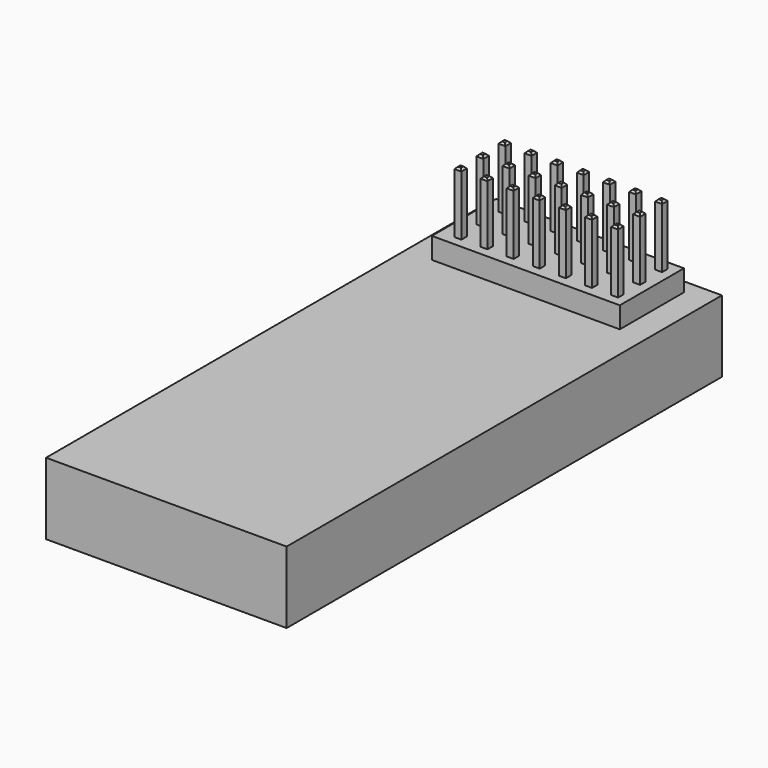
from build123d import *

# Parameters (mm, degrees)
F0_W     = 22.225
F0_H     = 50.2666
F1_DEPTH = 6.6294
F2_W     = 17.3609
F2_H     = 7.4041
F3_DEPTH = 1.9558
F4_W     = 0.635
F4_H     = 0.635
F5_DEPTH = 5.715
F6_SIZE  = 0.1778


with BuildPart() as f1:
    # F0 (on Top) → F1 (new body)
    with BuildSketch(Plane.XY):
        Rectangle(F0_W, F0_H)
    extrude(amount=F1_DEPTH)

    # F2 (on face) → F3 (join)
    with BuildSketch(Plane.XY.offset(6.6294)):
        with Locations((0, 20.08505)):
            Rectangle(F2_W, F2_H)
    extrude(amount=F3_DEPTH)

    # F4 (on face) → F5 (join)
    with BuildSketch(Plane.XY.offset(8.5852)):
        with Locations((7.51205, 22.6441)):
            Rectangle(F4_W, F4_H)
        with Locations((5.09905, 22.6441)):
            Rectangle(F4_W, F4_H)
        with Locations((2.68605, 22.6441)):
            Rectangle(F4_W, F4_H)
        with Locations((0.27305, 22.6441)):
            Rectangle(F4_W, F4_H)
        with Locations((-2.13995, 22.6441)):
            Rectangle(F4_W, F4_H)
        with Locations((-4.55295, 22.6441)):
            Rectangle(F4_W, F4_H)
        with Locations((-6.96595, 22.6441)):
            Rectangle(F4_W, F4_H)
        with Locations((-6.96595, 20.1041)):
            Rectangle(F4_W, F4_H)
        with Locations((-4.55295, 20.1041)):
            Rectangle(F4_W, F4_H)
        with Locations((-2.13995, 20.1041)):
            Rectangle(F4_W, F4_H)
        with Locations((0.27305, 20.1041)):
            Rectangle(F4_W, F4_H)
        with Locations((2.68605, 20.1041)):
            Rectangle(F4_W, F4_H)
        with Locations((5.09905, 20.1041)):
            Rectangle(F4_W, F4_H)
        with Locations((7.51205, 20.1041)):
            Rectangle(F4_W, F4_H)
        with Locations((-6.96595, 17.5641)):
            Rectangle(F4_W, F4_H)
        with Locations((-4.55295, 17.5641)):
            Rectangle(F4_W, F4_H)
        with Locations((-2.13995, 17.5641)):
            Rectangle(F4_W, F4_H)
        with Locations((0.27305, 17.5641)):
            Rectangle(F4_W, F4_H)
        with Locations((2.68605, 17.5641)):
            Rectangle(F4_W, F4_H)
        with Locations((5.09905, 17.5641)):
            Rectangle(F4_W, F4_H)
        with Locations((7.51205, 17.5641)):
            Rectangle(F4_W, F4_H)
    extrude(amount=F5_DEPTH)

    # F6
    f6_edges = [f1.edges().sort_by_distance(p)[0] for p in [
        (-6.96595, 22.9616, 14.3002),
        (-7.28345, 22.6441, 14.3002),
        (-6.96595, 22.3266, 14.3002),
        (-6.64845, 22.6441, 14.3002),
        (-6.64845, 20.1041, 14.3002),
        (-6.96595, 20.4216, 14.3002),
        (-7.28345, 20.1041, 14.3002),
        (-6.96595, 19.7866, 14.3002),
        (-4.55295, 22.9616, 14.3002),
        (-4.87045, 22.6441, 14.3002),
        (-4.55295, 22.3266, 14.3002),
        (-4.23545, 22.6441, 14.3002),
        (-4.55295, 20.4216, 14.3002),
        (-4.87045, 20.1041, 14.3002),
        (-4.55295, 19.7866, 14.3002),
        (-4.23545, 20.1041, 14.3002),
        (-6.64845, 17.5641, 14.3002),
        (-6.96595, 17.8816, 14.3002),
        (-7.28345, 17.5641, 14.3002),
        (-6.96595, 17.2466, 14.3002),
        (-4.55295, 17.8816, 14.3002),
        (-4.87045, 17.5641, 14.3002),
        (-4.55295, 17.2466, 14.3002),
        (-4.23545, 17.5641, 14.3002),
        (-2.13995, 20.4216, 14.3002),
        (-2.45745, 20.1041, 14.3002),
        (-2.13995, 19.7866, 14.3002),
        (-1.82245, 20.1041, 14.3002),
        (-2.13995, 22.9616, 14.3002),
        (-2.45745, 22.6441, 14.3002),
        (-2.13995, 22.3266, 14.3002),
        (-1.82245, 22.6441, 14.3002),
        (-2.13995, 17.8816, 14.3002),
        (-2.45745, 17.5641, 14.3002),
        (-2.13995, 17.2466, 14.3002),
        (-1.82245, 17.5641, 14.3002),
        (0.27305, 17.8816, 14.3002),
        (-0.04445, 17.5641, 14.3002),
        (0.27305, 17.2466, 14.3002),
        (0.59055, 17.5641, 14.3002),
        (0.27305, 20.4216, 14.3002),
        (-0.04445, 20.1041, 14.3002),
        (0.27305, 19.7866, 14.3002),
        (0.59055, 20.1041, 14.3002),
        (0.27305, 22.9616, 14.3002),
        (-0.04445, 22.6441, 14.3002),
        (0.27305, 22.3266, 14.3002),
        (0.59055, 22.6441, 14.3002),
        (2.68605, 22.9616, 14.3002),
        (2.36855, 22.6441, 14.3002),
        (2.68605, 22.3266, 14.3002),
        (3.00355, 22.6441, 14.3002),
        (2.36855, 20.1041, 14.3002),
        (2.68605, 19.7866, 14.3002),
        (2.68605, 20.4216, 14.3002),
        (3.00355, 20.1041, 14.3002),
        (2.68605, 17.8816, 14.3002),
        (2.36855, 17.5641, 14.3002),
        (2.68605, 17.2466, 14.3002),
        (3.00355, 17.5641, 14.3002),
        (5.09905, 20.4216, 14.3002),
        (4.78155, 20.1041, 14.3002),
        (5.09905, 19.7866, 14.3002),
        (5.41655, 20.1041, 14.3002),
        (5.09905, 17.8816, 14.3002),
        (4.78155, 17.5641, 14.3002),
        (5.09905, 17.2466, 14.3002),
        (5.41655, 17.5641, 14.3002),
        (5.09905, 22.9616, 14.3002),
        (4.78155, 22.6441, 14.3002),
        (5.09905, 22.3266, 14.3002),
        (5.41655, 22.6441, 14.3002),
        (7.19455, 20.1041, 14.3002),
        (7.51205, 19.7866, 14.3002),
        (7.82955, 20.1041, 14.3002),
        (7.51205, 20.4216, 14.3002),
        (7.19455, 17.5641, 14.3002),
        (7.51205, 17.2466, 14.3002),
        (7.82955, 17.5641, 14.3002),
        (7.51205, 17.8816, 14.3002),
        (7.51205, 22.9616, 14.3002),
        (7.19455, 22.6441, 14.3002),
        (7.51205, 22.3266, 14.3002),
        (7.82955, 22.6441, 14.3002),
    ]]
    chamfer(f6_edges, length=F6_SIZE)


solid = f1.part
